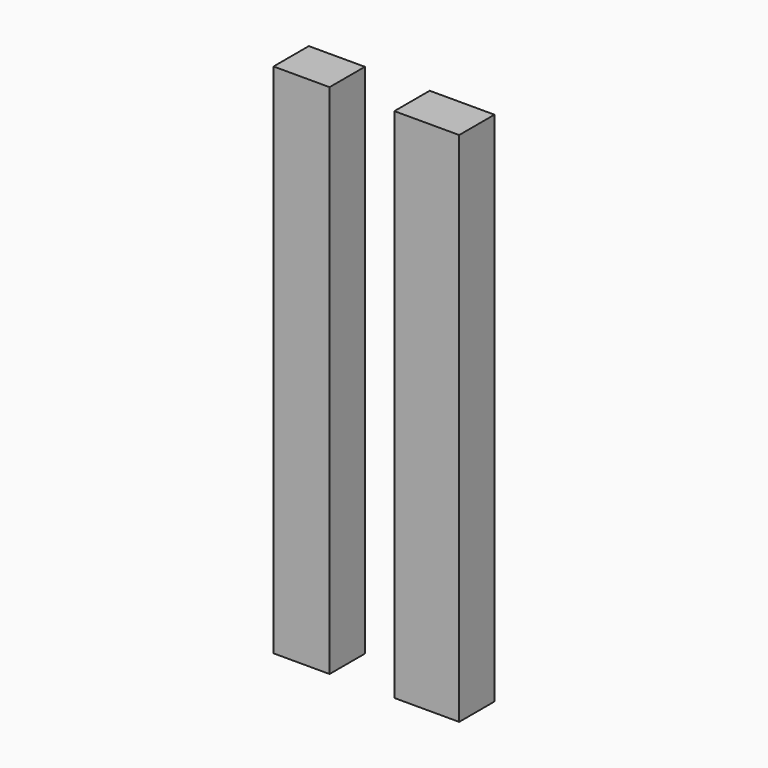
from build123d import *

# Parameters (mm, degrees)
F0_W     = 8.70857
F0_H     = 80.282144
F0_W_2   = 10.069287
F1_DEPTH = 6.858


with BuildPart() as f1:
    # F0 (on Front) → F1 (new body)
    with BuildSketch(Plane.XZ):
        with Locations((-43.406786, 7.892143)):
            Rectangle(F0_W, F0_H)
        with Locations((-23.948571, 7.892143)):
            Rectangle(F0_W_2, F0_H)
    extrude(amount=F1_DEPTH)


solid = f1.part
